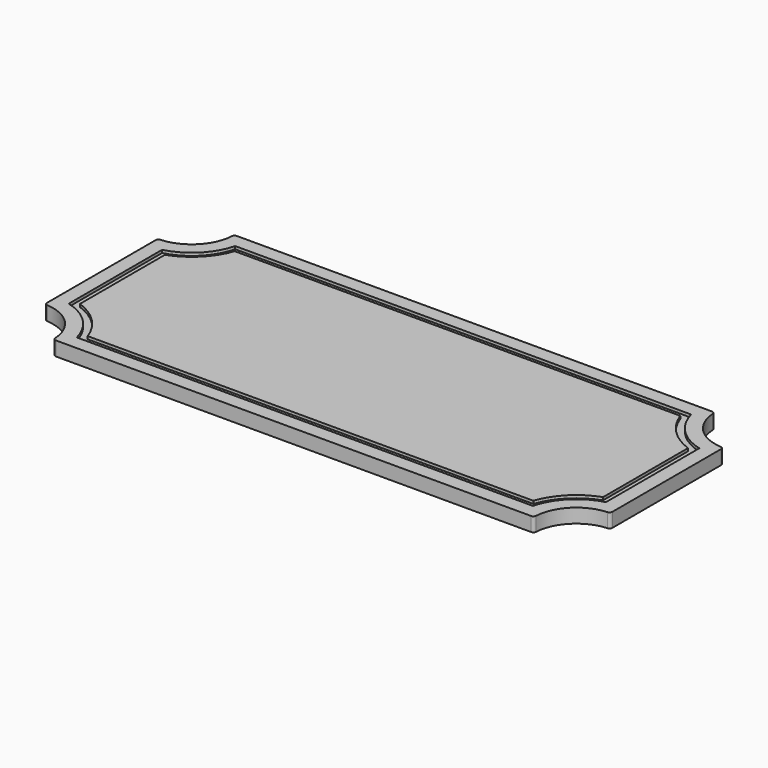
from build123d import *

# Parameters (mm, degrees)
F1_DEPTH = 12.7
F3_DEPTH = 2.54
F4_R     = 2.54


with BuildPart() as f1:
    # F0 (on Top) → F1 (new body)
    with BuildSketch(Plane.XY):
        with BuildLine():
            Line((-215.9, -101.6), (215.9, -101.6))
            ThreePointArc((215.9, -101.6), (227.059232, -74.659232), (254, -63.5))
            Line((254, -63.5), (254, 63.5))
            ThreePointArc((254, 63.5), (227.059232, 74.659232), (215.9, 101.6))
            Line((215.9, 101.6), (-215.9, 101.6))
            ThreePointArc((-215.9, 101.6), (-227.059232, 74.659232), (-254, 63.5))
            Line((-254, 63.5), (-254, -63.5))
            ThreePointArc((-254, -63.5), (-227.059232, -74.659232), (-215.9, -101.6))
        make_face()
    extrude(amount=-F1_DEPTH)

    # F2 (on face) → F3 (cut)
    with BuildSketch(Plane.XY):
        with BuildLine():
            ThreePointArc((241.3, 52.413112), (218.078976, 65.678976), (204.813112, 88.9))
            Line((204.813112, 88.9), (-204.813112, 88.9))
            ThreePointArc((-204.813112, 88.9), (-218.078976, 65.678976), (-241.3, 52.413112))
            Line((-241.3, 52.413112), (-241.3, -52.413112))
            ThreePointArc((-241.3, -52.413112), (-218.078976, -65.678976), (-204.813112, -88.9))
            Line((-204.813112, -88.9), (204.813112, -88.9))
            ThreePointArc((204.813112, -88.9), (218.078976, -65.678976), (241.3, -52.413112))
            Line((241.3, -52.413112), (241.3, 52.413112))
        make_face()
        with BuildLine():
            Line((-200.118461, 82.549997), (200.118461, 82.549997))
            ThreePointArc((200.118461, 82.549997), (213.588845, 61.188845), (234.949997, 47.718461))
            Line((234.949997, 47.718461), (234.949997, -47.718461))
            ThreePointArc((234.949997, -47.718461), (213.588845, -61.188845), (200.118461, -82.549997))
            Line((200.118461, -82.549997), (-200.118461, -82.549997))
            ThreePointArc((-200.118461, -82.549997), (-213.588845, -61.188845), (-234.949997, -47.718461))
            Line((-234.949997, -47.718461), (-234.949997, 47.718461))
            ThreePointArc((-234.949997, 47.718461), (-213.588845, 61.188845), (-200.118461, 82.549997))
        make_face(mode=Mode.SUBTRACT)
    extrude(amount=-F3_DEPTH, mode=Mode.SUBTRACT)

    # F4
    f4_edges = [f1.edges().sort_by_distance(p)[0] for p in [
        (-254, 63.5, -6.35),
        (-215.9, 101.6, -6.35),
        (254, 63.5, -6.35),
        (215.9, 101.6, -6.35),
        (254, -63.5, -6.35),
        (215.9, -101.6, -6.35),
        (-215.9, -101.6, -6.35),
        (-254, -63.5, -6.35),
    ]]
    fillet(f4_edges, radius=F4_R)


solid = f1.part
